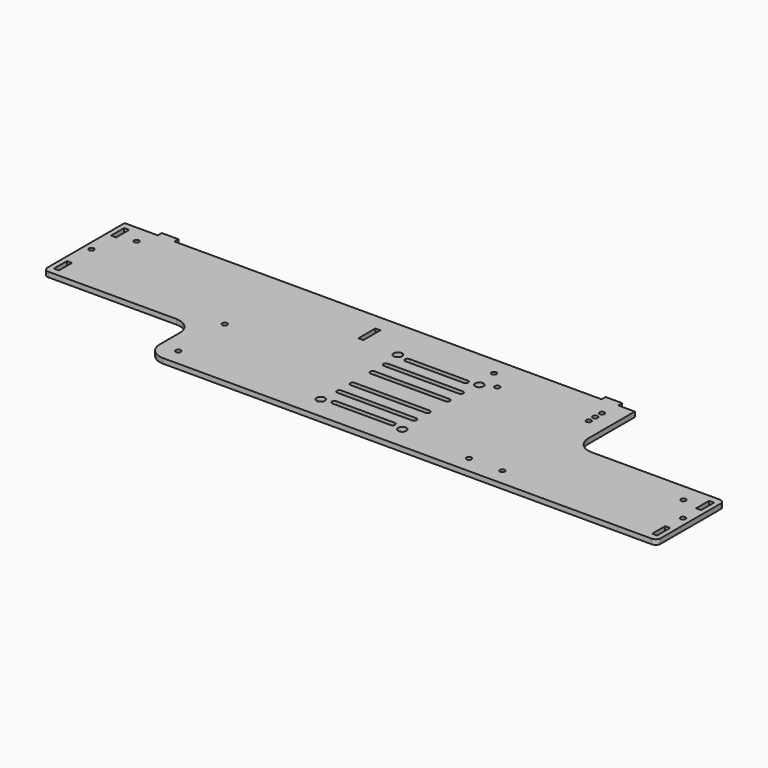
from build123d import *

# Parameters (mm, degrees)
SKETCH001002008_R   = 1.5
SKETCH001002008_R_2 = 2.5
SKETCH001002008_W   = 9.8
SKETCH001002008_H   = 3
SKETCH001002008_W_2 = 12.8
PAD013_DEPTH        = 3
FILLET027_R         = 3
FILLET030_R         = 10


with BuildPart() as part:
    # Sketch001002008 → Pad013 (new body)
    with BuildSketch(Plane(origin=(0, 45, -16.5), x_dir=(0, -1, 0), z_dir=(0, 0, 1))):
        Polygon((-61, -198.5), (0, -198.5), (0, -108.5), (35, -108.5), (35, 198.5), (-16, 198.5), (-16, 108.5), (-61, 108.5), (-61, 98.5), (-64, 98.5), (-64, 88.5), (-61, 88.5), (-61, -168.5), (-64, -168.5), (-64, -178.5), (-61, -178.5), align=None)
        with Locations((9.5, 194)):
            Circle(SKETCH001002008_R, mode=Mode.SUBTRACT)
        with Locations((-30.5, -194)):
            Circle(SKETCH001002008_R, mode=Mode.SUBTRACT)
        with Locations((-5.1, 182.5)):
            Circle(SKETCH001002008_R, mode=Mode.SUBTRACT)
        with Locations((-36.6, 34.5)):
            Circle(SKETCH001002008_R_2, mode=Mode.SUBTRACT)
        with Locations((21.4, 34.5)):
            Circle(SKETCH001002008_R_2, mode=Mode.SUBTRACT)
        with Locations((21.4, -14.5)):
            Circle(SKETCH001002008_R_2, mode=Mode.SUBTRACT)
        with Locations((-36.6, -14.5)):
            Circle(SKETCH001002008_R_2, mode=Mode.SUBTRACT)
        with Locations((-50.1, 97.5)):
            Circle(SKETCH001002008_R, mode=Mode.SUBTRACT)
        with Locations((-50.1, -182.5)):
            Circle(SKETCH001002008_R, mode=Mode.SUBTRACT)
        with Locations((24.9, -97.5)):
            Circle(SKETCH001002008_R, mode=Mode.SUBTRACT)
        with Locations((-50.1, 32.5)):
            Circle(SKETCH001002008_R, mode=Mode.SUBTRACT)
        with Locations((-10.1, -97.5)):
            Circle(SKETCH001002008_R, mode=Mode.SUBTRACT)
        with Locations((24.9, 77.5)):
            Circle(SKETCH001002008_R, mode=Mode.SUBTRACT)
        with Locations((-45.1, 97.5)):
            Circle(SKETCH001002008_R, mode=Mode.SUBTRACT)
        with Locations((-40.1, 97.5)):
            Circle(SKETCH001002008_R, mode=Mode.SUBTRACT)
        with Locations((24.9, 97.5)):
            Circle(SKETCH001002008_R, mode=Mode.SUBTRACT)
        with Locations((-40.1, 42.5)):
            Circle(SKETCH001002008_R, mode=Mode.SUBTRACT)
        with Locations((-52, -194)):
            Rectangle(SKETCH001002008_W, SKETCH001002008_H, mode=Mode.SUBTRACT)
        with Locations((-9, -194)):
            Rectangle(SKETCH001002008_W, SKETCH001002008_H, mode=Mode.SUBTRACT)
        with Locations((-7, 194)):
            Rectangle(SKETCH001002008_W, SKETCH001002008_H, mode=Mode.SUBTRACT)
        with Locations((26, 194)):
            Rectangle(SKETCH001002008_W, SKETCH001002008_H, mode=Mode.SUBTRACT)
        with Locations((-44.5, -38)):
            Rectangle(SKETCH001002008_W_2, SKETCH001002008_H, mode=Mode.SUBTRACT)
        with BuildLine():
            ThreePointArc((-33.6, 27.5), (-35.1, 29), (-36.6, 27.5))
            Line((-36.6, 27.5), (-36.6, -7.5))
            ThreePointArc((-36.6, -7.5), (-35.1, -9), (-33.6, -7.5))
            Line((-33.6, 27.5), (-33.6, -7.5))
        make_face(mode=Mode.SUBTRACT)
        with BuildLine():
            ThreePointArc((-23.6, 32.5), (-25.1, 34), (-26.6, 32.5))
            Line((-26.6, 32.5), (-26.6, -12.5))
            ThreePointArc((-26.6, -12.5), (-25.1, -14), (-23.6, -12.5))
            Line((-23.6, 32.5), (-23.6, -12.5))
        make_face(mode=Mode.SUBTRACT)
        with BuildLine():
            ThreePointArc((-13.6, 32.5), (-15.1, 34), (-16.6, 32.5))
            Line((-16.6, 32.5), (-16.6, -12.5))
            ThreePointArc((-16.6, -12.5), (-15.1, -14), (-13.6, -12.5))
            Line((-13.6, 32.5), (-13.6, -12.5))
        make_face(mode=Mode.SUBTRACT)
        with BuildLine():
            ThreePointArc((1.4, 32.5), (-0.1, 34), (-1.6, 32.5))
            Line((-1.6, 32.5), (-1.6, -12.5))
            ThreePointArc((-1.6, -12.5), (-0.1, -14), (1.4, -12.5))
            Line((1.4, 32.5), (1.4, -12.5))
        make_face(mode=Mode.SUBTRACT)
        with BuildLine():
            ThreePointArc((11.4, 32.5), (9.9, 34), (8.4, 32.5))
            Line((8.4, 32.5), (8.4, -12.5))
            ThreePointArc((8.4, -12.5), (9.9, -14), (11.4, -12.5))
            Line((11.4, 32.5), (11.4, -12.5))
        make_face(mode=Mode.SUBTRACT)
        with BuildLine():
            ThreePointArc((21.4, 27.5), (19.9, 29), (18.4, 27.5))
            Line((18.4, 27.5), (18.4, -7.5))
            ThreePointArc((18.4, -7.5), (19.9, -9), (21.4, -7.5))
            Line((21.4, 27.5), (21.4, -7.5))
        make_face(mode=Mode.SUBTRACT)
    extrude(amount=-PAD013_DEPTH)

    # Fillet027
    fillet027_edges = [part.edges().sort_by_distance(p)[0] for p in [
        (-198.5, 45, -18),
        (198.5, 10, -18),
        (198.5, 61, -18),
    ]]
    fillet(fillet027_edges, radius=FILLET027_R)

    # Fillet030
    fillet030_edges = [part.edges().sort_by_distance(p)[0] for p in [
        (-108.5, 45, -18),
        (-108.5, 10, -18),
        (108.5, 61, -18),
    ]]
    fillet(fillet030_edges, radius=FILLET030_R)


solid = part.part
